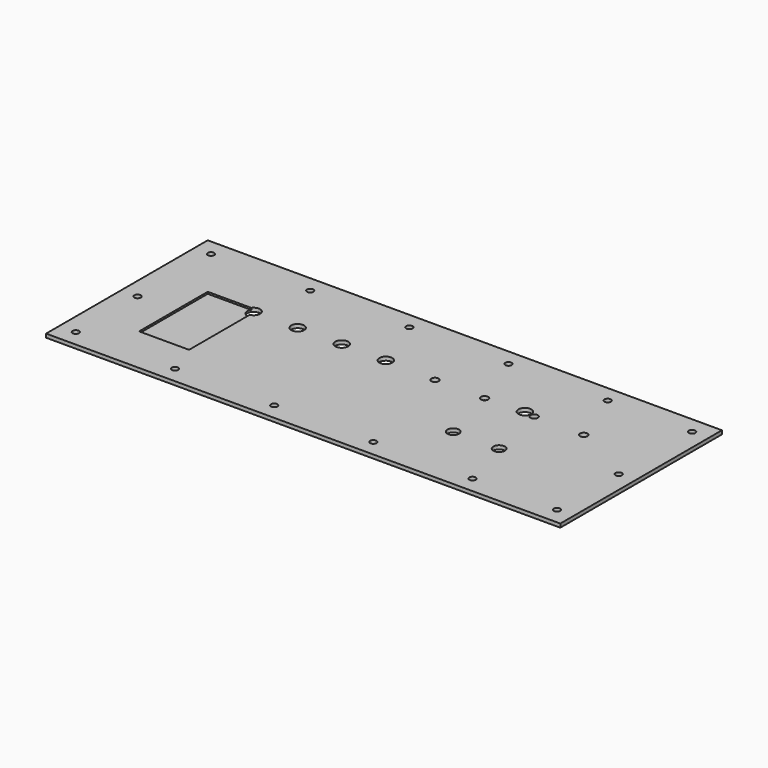
from build123d import *

# Parameters (mm, degrees)
F0_W     = 280
F0_H     = 110
F1_DEPTH = 2
F2_R     = 3.5
F2_R_2   = 3.15
F3_DEPTH = 25
F4_R     = 2
F4_R_2   = 1.75
F5_DEPTH = 25
F6_W     = 27.2
F6_H     = 46.7
F7_DEPTH = 1


with BuildPart() as f1:
    # F0 (on Top) → F1 (new body)
    with BuildSketch(Plane.XY):
        with Locations((-90.244181, 21.321014)):
            Rectangle(F0_W, F0_H)
    extrude(amount=F1_DEPTH)

    # F2 (on face) → F3 (cut)
    with BuildSketch(Plane.XY.offset(2)):
        with Locations((-174.041525, 37.321014)):
            Circle(F2_R)
        with Locations((-150.041525, 37.321014)):
            Circle(F2_R)
        with Locations((-126.041525, 37.321014)):
            Circle(F2_R)
        with Locations((-102.041525, 37.321014)):
            Circle(F2_R)
        with Locations((-26.333425, 37.321014)):
            Circle(F2_R)
        with Locations((-13.643486, 3.923428)):
            Circle(F2_R_2)
        with Locations((-38.643486, 3.923428)):
            Circle(F2_R_2)
    extrude(amount=-F3_DEPTH, mode=Mode.SUBTRACT)

    # F4 (on face) → F5 (cut)
    with BuildSketch(Plane(origin=(0, 0, 0), x_dir=(1, 0, 0), z_dir=(0, 0, -1))):
        with Locations((6.512116, -36.321014)):
            Circle(F4_R)
        with Locations((-20.487884, -36.321014)):
            Circle(F4_R)
        with Locations((-47.487884, -36.321014)):
            Circle(F4_R)
        with Locations((-74.487884, -36.321014)):
            Circle(F4_R)
        with Locations((-221.244181, 24.678986)):
            Circle(F4_R_2)
        with Locations((-221.244181, -67.321014)):
            Circle(F4_R_2)
        with Locations((40.755819, 24.678986)):
            Circle(F4_R_2)
        with Locations((40.755819, -67.321014)):
            Circle(F4_R_2)
        with Locations((-167.244181, 24.678986)):
            Circle(F4_R_2)
        with Locations((-167.244181, -67.321014)):
            Circle(F4_R_2)
        with Locations((-113.244181, 24.678986)):
            Circle(F4_R_2)
        with Locations((-113.244181, -67.321014)):
            Circle(F4_R_2)
        with Locations((-59.244181, 24.678986)):
            Circle(F4_R_2)
        with Locations((-59.244181, -67.321014)):
            Circle(F4_R_2)
        with Locations((-5.244181, 24.678986)):
            Circle(F4_R_2)
        with Locations((-5.244181, -67.321014)):
            Circle(F4_R_2)
        with Locations((-221.244181, -17.321014)):
            Circle(F4_R_2)
        with Locations((40.755819, -17.321014)):
            Circle(F4_R_2)
    extrude(amount=-F5_DEPTH, mode=Mode.SUBTRACT)

    # F6 (on face) → F7 (cut)
    with BuildSketch(Plane.XY.offset(2)):
        with Locations((-187.032314, 15.971014)):
            Rectangle(F6_W, F6_H)
    extrude(amount=-F7_DEPTH, mode=Mode.SUBTRACT)


solid = f1.part
